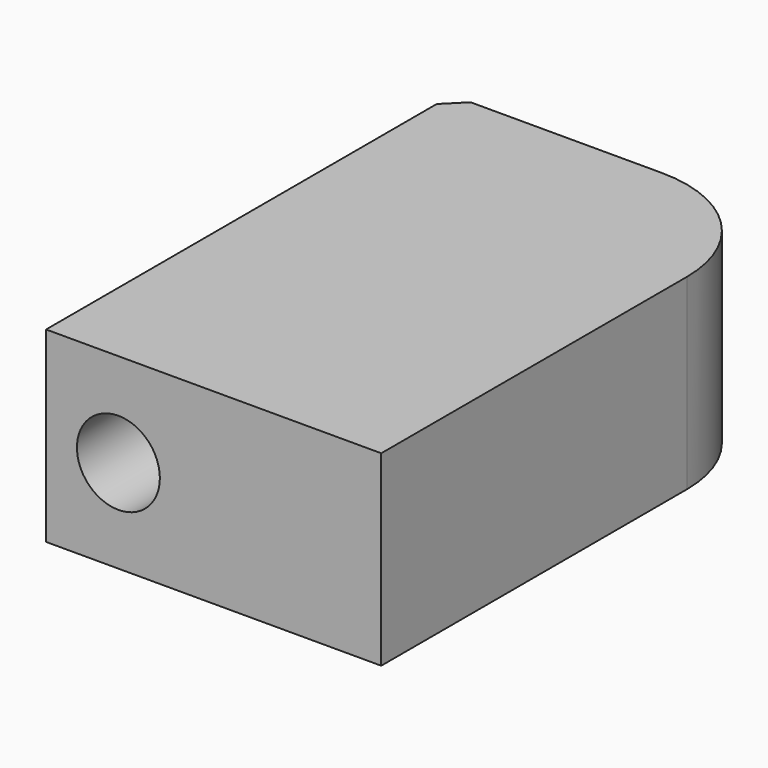
from build123d import *

# Parameters (mm, degrees)
F0_W     = 90.31574
F0_H     = 50.404425
F0_R     = 11.170566
F1_DEPTH = 136.652
F2_R     = 33.726563
F3_SIZE  = 5.08


with BuildPart() as f1:
    # F0 (on Front) → F1 (new body)
    with BuildSketch(Plane.XZ):
        with Locations((-2.810655, 38.599672)):
            Rectangle(F0_W, F0_H)
        with Locations((-28.481312, 38.505986)):
            Circle(F0_R, mode=Mode.SUBTRACT)
    extrude(amount=-F1_DEPTH)

    # F2
    f2_edges = [f1.edges().sort_by_distance(p)[0] for p in [
        (42.347215, 136.652, 38.599672),
    ]]
    fillet(f2_edges, radius=F2_R)

    # F3
    f3_edges = [f1.edges().sort_by_distance(p)[0] for p in [
        (-47.968525, 136.652, 38.599672),
    ]]
    chamfer(f3_edges, length=F3_SIZE)


solid = f1.part
